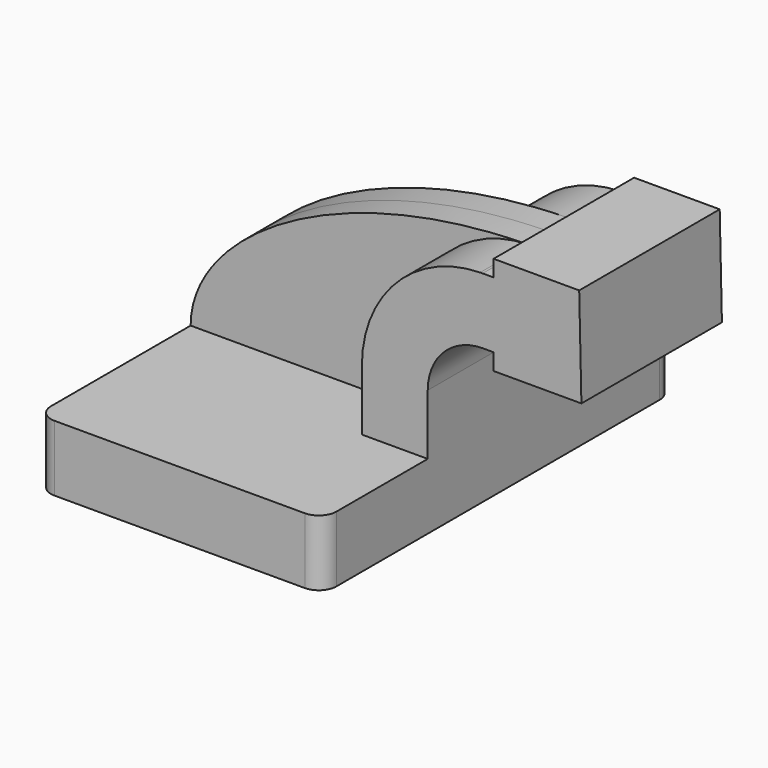
from build123d import *

# Parameters (mm, degrees)
F1_DEPTH = 63.5
F2_DEPTH = 25.4
F3_DEPTH = 7.9375
F4_R     = 5.08


with BuildPart() as f1:
    # F0 (on Front) → F1 (new body, symmetric)
    with BuildSketch(Plane.XZ):
        Polygon((-41.275, 9.525), (-41.275, -9.525), (41.275, -9.525), (41.275, 9.525), (22.225, 9.525), align=None)
    extrude(amount=F1_DEPTH, both=True)

    # F0 (on Front) → F2 (join, symmetric)
    with BuildSketch(Plane.XZ):
        with BuildLine():
            Line((22.225, 9.525), (41.275, 9.525))
            Line((41.275, 9.525), (41.275, 27.0002))
            ThreePointArc((41.275, 27.0002), (45.92468, 38.22552), (57.15, 42.8752))
            Line((57.15, 42.8752), (60.325, 42.8752))
            Line((60.325, 42.8752), (60.325, 61.9252))
            Line((60.325, 61.9252), (57.15, 61.9252))
            add(Edge.make_bspline(
                [(56.444235, 61.918068), (56.679218, 61.920897), (56.914473, 61.923274), (57.15, 61.9252)],
                knots=[111.045003, 111.045003, 111.045003, 111.045003, 111.504536, 111.504536, 111.504536, 111.504536], degree=3))
            ThreePointArc((56.444235, 61.918068), (32.206018, 51.445105), (22.225, 27.0002))
            Line((22.225, 27.0002), (22.225, 9.525))
        make_face()
        Polygon((60.325, 66.675), (60.325, 61.9252), (60.325, 42.8752), (60.325, 38.1), (85.725, 38.1), (85.086263, 66.675), align=None)
    extrude(amount=F2_DEPTH, both=True)

    # F0 (on Front) → F3 (join, symmetric)
    with BuildSketch(Plane.XZ):
        with BuildLine():
            add(Edge.make_bspline(
                [(-41.275, 9.525), (-41.190063, 34.252091), (-0.338804, 61.234613), (56.444235, 61.918068)],
                knots=[0, 0, 0, 0, 111.045003, 111.045003, 111.045003, 111.045003], degree=3))
            Line((-41.275, 9.525), (22.225, 9.525))
            Line((22.225, 9.525), (22.225, 27.0002))
            ThreePointArc((22.225, 27.0002), (32.206018, 51.445105), (56.444235, 61.918068))
        make_face()
    extrude(amount=F3_DEPTH, both=True)

    # F4
    f4_edges = [f1.edges().sort_by_distance(p)[0] for p in [
        (41.275, -63.5, 0),
        (-41.275, -63.5, 0),
        (41.275, 63.5, 0),
        (-41.275, 63.5, 0),
    ]]
    fillet(f4_edges, radius=F4_R)


solid = f1.part
